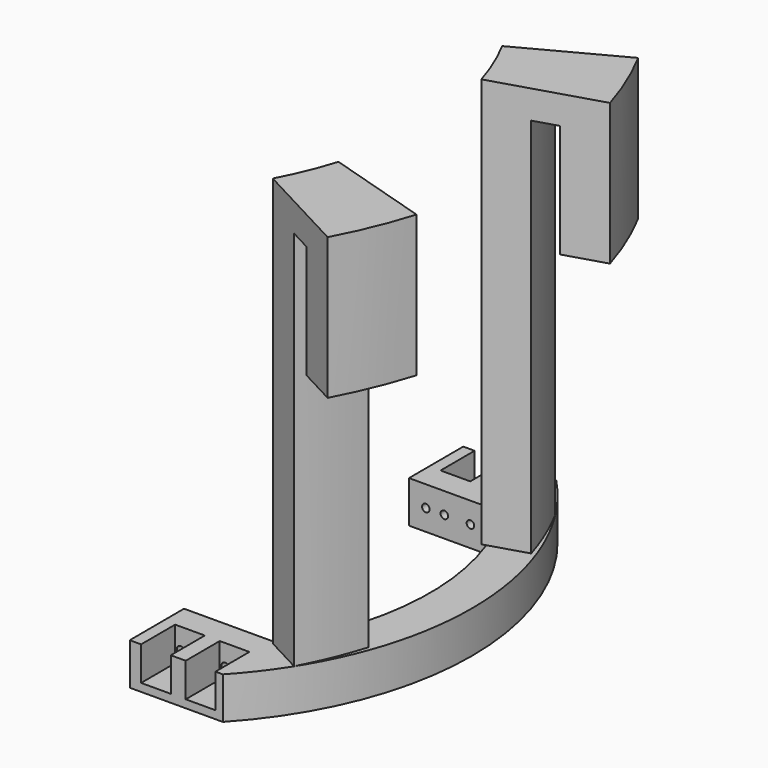
from build123d import *

# Parameters (mm, degrees)
F1_ANGLE_BACK = 28
F1_ANGLE      = 56
F2_ANGLE_BACK = 17
F2_ANGLE      = 34
F4_DEPTH      = 5.6388
F6_DEPTH      = 4.572
F7_R          = 0.508
F8_DEPTH      = 99.568
F9_R          = 0.508
F10_DEPTH     = 72.39


with BuildPart() as f1:
    # F0 (on Front) → F1 (revolve)
    with BuildSketch(Plane.XZ, mode=Mode.PRIVATE) as f1_sk:
        Polygon((0, 0), (0, 51.308), (3.2766, 51.308), (3.2766, 36.068), (8.9154, 36.068), (8.9154, 55.118), (-5.6388, 55.118), (-5.6388, 0), align=None)
    revolve(f1_sk.sketch.rotate(Axis((-46.7614, 0, 20.3579571098), (0, 0, 1)), -F1_ANGLE_BACK), axis=Axis((-46.7614, 0, 20.3579571098), (0, 0, 1)), revolution_arc=F1_ANGLE)

    # F0 (on Front) → F2 (revolve, cut)
    with BuildSketch(Plane.XZ, mode=Mode.PRIVATE) as f2_sk:
        Polygon((0, 0), (0, 51.308), (3.2766, 51.308), (3.2766, 36.068), (8.9154, 36.068), (8.9154, 55.118), (-5.6388, 55.118), (-5.6388, 0), align=None)
    revolve(f2_sk.sketch.rotate(Axis((-46.7614, 0, 20.3579571098), (0, 0, -1)), -F2_ANGLE_BACK), axis=Axis((-46.7614, 0, 20.3579571098), (0, 0, -1)), revolution_arc=F2_ANGLE, mode=Mode.SUBTRACT)

    # F3 (on Top) → F4 (join)
    with BuildSketch(Plane.XY):
        with BuildLine():
            Line((-22.6634080678, -28.1140467498), (-10.1666593224, -28.0782552096))
            ThreePointArc((-10.1666593224, -28.0782552096), (0.9017854761, 0.1178501934), (-10.3279875482, 28.2500919806))
            Line((-10.3279875482, 28.2500919806), (-22.8247362936, 28.2143004404))
            Line((-22.8247362936, 28.2143004404), (-22.7984871846, 19.0493268453))
            Line((-22.7984871846, 19.0493268453), (-10.3017384392, 19.0851183855))
            ThreePointArc((-10.3017384392, 19.0851183855), (-4.7369913968, 0.1017003521), (-10.1929084315, -18.9132816145))
            Line((-10.1929084315, -18.9132816145), (-22.6896571769, -18.9490731547))
            Line((-22.6896571769, -18.9490731547), (-22.6634080678, -28.1140467498))
        make_face()
    extrude(amount=-F4_DEPTH)

    # F5 (on face) → F6 (cut)
    with BuildSketch(Plane.XY):
        Polygon((-21.1558706034, -22.363909105), (-21.1394143184, -28.1096819278), (-17.151630674, -28.0982606436), (-17.168086959, -22.3524878208), align=None)
        Polygon((-15.161486959, -22.3524878208), (-15.1450471338, -28.0925136516), (-11.1572634894, -28.0810923674), (-11.1737033147, -22.3410665366), align=None)
        Polygon((-17.2965026148, 22.4843137237), (-17.3129588998, 28.2300865465), (-21.3007425442, 28.2186652623), (-21.2842862592, 22.4728924395), align=None)
        Polygon((-11.3021189705, 22.4957350078), (-11.3185917152, 28.2472548227), (-15.3063753596, 28.2358335385), (-15.2899026148, 22.4843137237), align=None)
    extrude(amount=-F6_DEPTH, mode=Mode.SUBTRACT)

    # F7 (on face) → F8 (cut)
    with BuildSketch(Plane(origin=(-0.0645214991, 22.527920253, 0), x_dir=(-0.9999958986, -0.0028640564, 0), z_dir=(-0.0028640564, 0.9999958986, 0))):
        with Locations((11.9996435616, -2.8194)):
            Circle(F7_R)
        with Locations((14.4888435616, -2.8194)):
            Circle(F7_R)
    extrude(amount=-F8_DEPTH, mode=Mode.SUBTRACT)

    # F9 (on face) → F10 (cut)
    with BuildSketch(Plane(origin=(-0.0645379589, 22.533667245, 0), x_dir=(-0.9999958986, -0.0028640564, 0), z_dir=(-0.0028640564, 0.9999958986, 0))):
        with Locations((17.9940353317, -2.8194)):
            Circle(F9_R)
        with Locations((20.4832353317, -2.8194)):
            Circle(F9_R)
    extrude(amount=-F10_DEPTH, mode=Mode.SUBTRACT)


solid = f1.part
